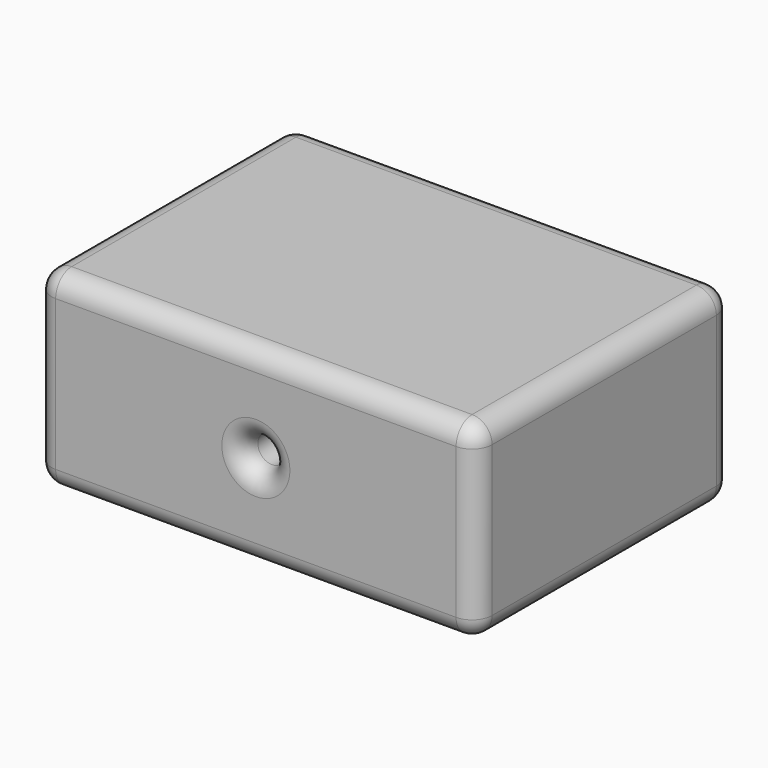
from build123d import *

# Parameters (mm, degrees)
F0_W     = 110.007778
F0_H     = 47.554146
F1_DEPTH = 80
F2_R     = 3.5
F3_DEPTH = 40
F4_R     = 5


with BuildPart() as f1:
    # F0 (on Front) → F1 (new body)
    with BuildSketch(Plane.XZ):
        Rectangle(F0_W, F0_H)
    extrude(amount=F1_DEPTH)

    # F2 (on face) → F3 (cut)
    with BuildSketch(Plane.XZ.offset(80)):
        Circle(F2_R)
    extrude(amount=-F3_DEPTH, mode=Mode.SUBTRACT)

    # F4
    f4_edges = [f1.edges().sort_by_distance(p)[0] for p in [
        (0, -80, 23.777073),
        (-55.003889, -80, 0),
        (0, -80, -23.777073),
        (55.003889, -80, 0),
        (-55.003889, -40, 23.777073),
        (0, 0, 23.777073),
        (55.003889, -40, 23.777073),
        (55.003889, -40, -23.777073),
        (-55.003889, -40, -23.777073),
        (0, 0, -23.777073),
        (55.003889, 0, 0),
        (-55.003889, 0, 0),
        (-3.5, -80, 0),
    ]]
    fillet(f4_edges, radius=F4_R)


solid = f1.part
